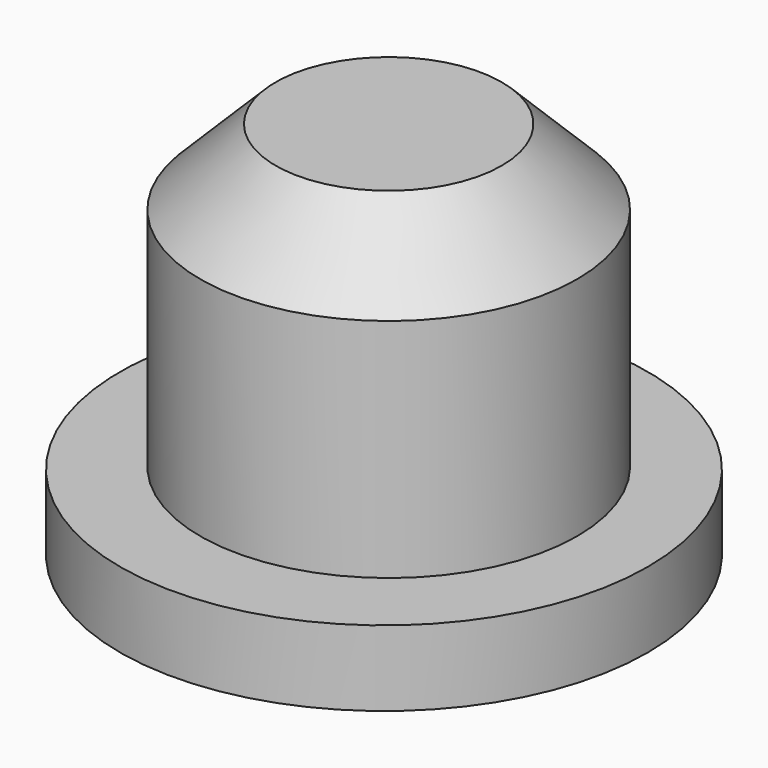
from build123d import *

# Parameters (mm, degrees)
F0_R     = 0.7497944492
F1_DEPTH = 1.2
F2_R     = 1.0499303661
F2_R_2   = 0.7497944492
F3_DEPTH = 0.3
F4_DEPTH = 0.3
F5_SIZE  = 0.3


with BuildPart() as f1:
    # F0 (on Top) → F1 (new body)
    with BuildSketch(Plane.XY):
        Circle(F0_R)
    extrude(amount=F1_DEPTH)

    # F2 (on face) → F3 (join)
    with BuildSketch(Plane(origin=(0, 0, 0), x_dir=(1, 0, 0), z_dir=(0, 0, -1))):
        with Locations((0, 0.0235324333)):
            Circle(F2_R)
        Circle(F2_R_2, mode=Mode.SUBTRACT)
    extrude(amount=-F3_DEPTH)

    # F4 (add): a face of the model
    f4_faces = [f1.faces().sort_by_distance(p)[0] for p in [
        (0, 0, 1.2),
    ]]
    extrude(f4_faces, amount=F4_DEPTH)

    # F5
    f5_edges = [f1.edges().sort_by_distance(p)[0] for p in [
        (-0.749794, 0, 1.5),
    ]]
    chamfer(f5_edges, length=F5_SIZE)


with BuildPart() as f7:
    # F6 (on Front) → F7 (revolve)
    with BuildSketch(Plane.XZ):
        Polygon((0, -1.2119101593), (0, 0), (-0.8503605495, -1.2119101593), align=None)
    revolve(axis=Axis((0, 0, -0.6059550797), (0, 0, -1)))


with BuildPart() as f7_1:
    # F8: moved
    add(f7.part.moved(Location((0, 0, 1))))


with BuildPart() as f7_2:
    # F9: moved
    add(f7_1.part.moved(Location((0, 0, 0.2))))


with BuildPart() as f7_3:
    # F10: moved
    add(f7_2.part.moved(Location((0, -0.02, 0))))


with BuildPart() as f1_1:
    add(f1.part)

    # F11: cut F7
    add(f7_3.part, mode=Mode.SUBTRACT)


solid = f1_1.part
